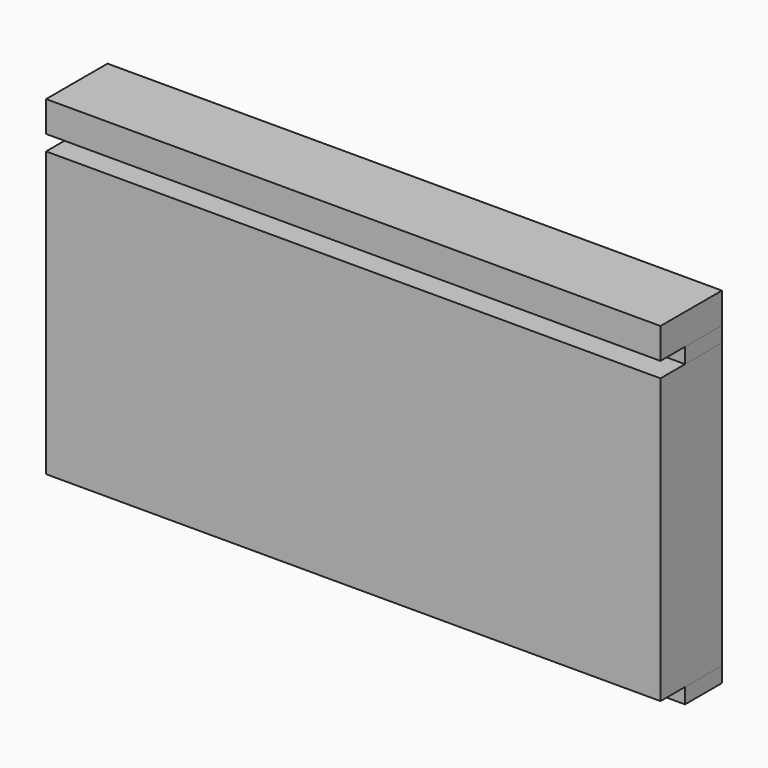
from build123d import *

# Parameters (mm, degrees)
F0_W     = 160
F0_H     = 4
F1_DEPTH = 12
F0_H_2   = 74
F0_H_3   = 8
F2_DEPTH = 20


with BuildPart() as f1:
    # F0 (on Front) → F1 (new body)
    with BuildSketch(Plane.XZ):
        with Locations((0, 35)):
            Rectangle(F0_W, F0_H)
        with Locations((0, -43)):
            Rectangle(F0_W, F0_H)
    extrude(amount=F1_DEPTH)


with BuildPart() as f2:
    # F0 (on Front) → F2 (new body)
    with BuildSketch(Plane.XZ):
        with Locations((0, -4)):
            Rectangle(F0_W, F0_H_2)
        with Locations((0, 41)):
            Rectangle(F0_W, F0_H_3)
    extrude(amount=F2_DEPTH)


solid = Compound([f1.part, f2.part])
